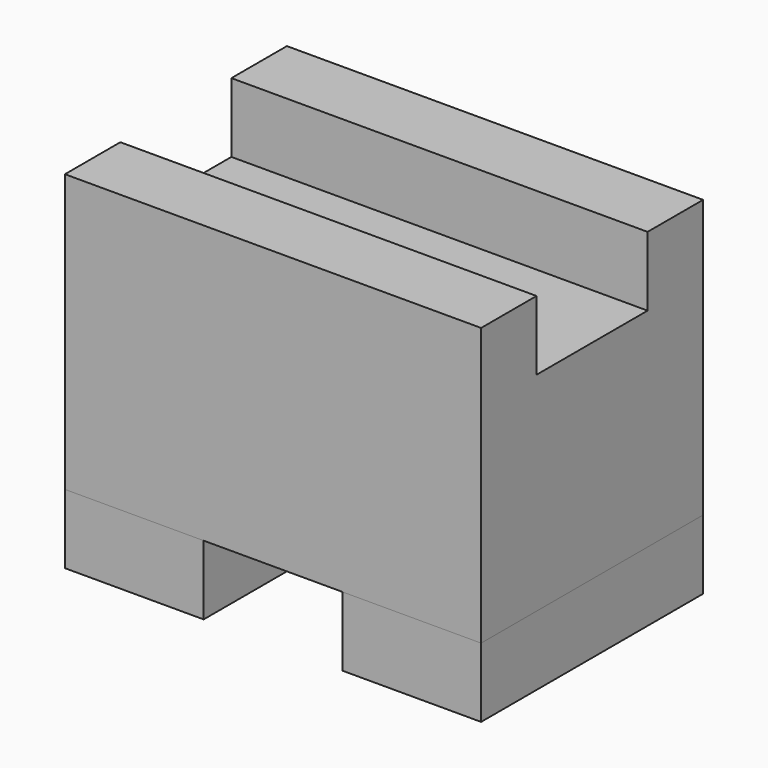
from build123d import *

# Parameters (mm, degrees)
F0_W     = 12.7
F0_H     = 25.4
F1_DEPTH = 6.35
F3_W     = 25.4
F3_H     = 25.4
F3_W_2   = 12.7
F4_DEPTH = 19.05
F5_W     = 38.1
F5_H     = 6.3411188312
F6_DEPTH = 6.35
F7_W     = 38.1
F7_H     = 6.35
F8_DEPTH = 6.35


with BuildPart() as f1:
    # F0 (on Top) → F1 (new body)
    with BuildSketch(Plane.XY):
        with Locations((31.75, 12.7)):
            Rectangle(F0_W, F0_H)
    extrude(amount=F1_DEPTH)


with BuildPart() as f1b:
    # F0 (on Top) → F1, piece 2 (new body)
    with BuildSketch(Plane.XY):
        with Locations((6.35, 12.7)):
            Rectangle(F0_W, F0_H)
    extrude(amount=F1_DEPTH)


with BuildPart() as f4:
    # F3 (on face) → F4 (new body)
    with BuildSketch(Plane.XY.offset(6.35)):
        with Locations((25.4, 12.7)):
            Rectangle(F3_W, F3_H)
        with Locations((6.35, 12.7)):
            Rectangle(F3_W_2, F3_H)
    extrude(amount=F4_DEPTH)

    # F5 (on face) → F6 (join)
    with BuildSketch(Plane.XY.offset(25.4)):
        with Locations((19.05, 3.1705594156)):
            Rectangle(F5_W, F5_H)
    extrude(amount=F6_DEPTH)

    # F7 (on face) → F8 (join)
    with BuildSketch(Plane.XY.offset(25.4)):
        with Locations((19.05, 22.225)):
            Rectangle(F7_W, F7_H)
    extrude(amount=F8_DEPTH)


solid = Compound([f1.part, f1b.part, f4.part])
